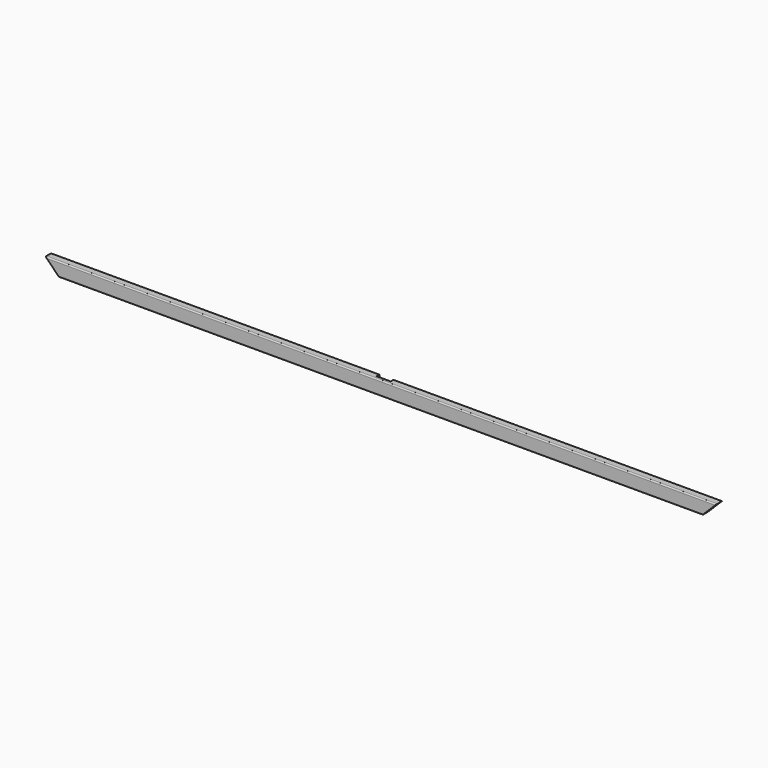
from build123d import *

# Parameters (mm, degrees)
F0_W     = 1828.8
F0_H     = 38.1
F1_DEPTH = 19.05
F2_W     = 38.1
F2_H     = 38.1
F3_DEPTH = 9.525
F5_DEPTH = 19.051
F6_R     = 3.175


with BuildPart() as f1:
    # F0 (on Front) → F1 (new body)
    with BuildSketch(Plane.XZ):
        Rectangle(F0_W, F0_H)
    extrude(amount=F1_DEPTH)

    # F2 (on face) → F3 (cut)
    with BuildSketch(Plane(origin=(0, 0, 0), x_dir=(-1, 0, 0), z_dir=(0, 1, 0))):
        Rectangle(F2_W, F2_H)
    extrude(amount=-F3_DEPTH, mode=Mode.SUBTRACT)

    # F4 (on face) → F5 (cut, through all)
    with BuildSketch(Plane.XZ.offset(19.05)):
        Polygon((-876.3, -19.05), (-914.4, 19.05), (-914.4, -19.05), align=None)
        Polygon((876.3, -19.05), (914.4, -19.05), (914.4, 19.05), align=None)
    extrude(amount=-F5_DEPTH, mode=Mode.SUBTRACT)

    # F6
    f6_edges = [f1.edges().sort_by_distance(p)[0] for p in [
        (0, -19.05, 19.05),
        (0, -19.05, -19.05),
    ]]
    fillet(f6_edges, radius=F6_R)


solid = f1.part
